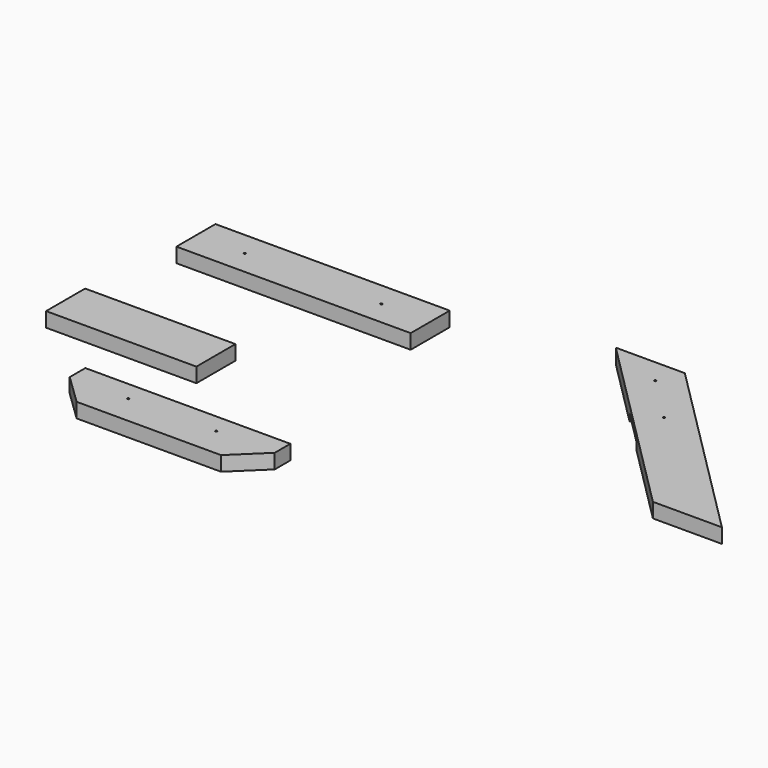
from build123d import *

# Parameters (mm, degrees)
F0_R      = 1.27
F1_DEPTH  = 19.05
F3_DEPTH  = 19.05
F6_DEPTH  = 19.05
F7_DEPTH  = 19.05
F8_DEPTH  = 9.525
F9_DEPTH  = 9.525
F10_R     = 1.27
F11_DEPTH = 19.05
F12_R     = 1.27
F13_DEPTH = 19.05
F14_W     = 195.58
F14_H     = 63.5
F15_DEPTH = 19.05


with BuildPart() as f1:
    # F0 (on Top) → F1 (new body)
    with BuildSketch(Plane.XY):
        Polygon((-33.4763097286, 71.3527927399), (-338.2763097286, 71.3527927399), (-338.2763097286, 7.8527927399), (-33.4763097286, 7.8527927399), (-33.4763097286, 39.6027927399), align=None)
        with Locations((-274.7763097286, 39.6027927399)):
            Circle(F0_R, mode=Mode.SUBTRACT)
        with BuildLine():
            ThreePointArc((-98.2463097286, 39.6027927399), (-96.9763097286, 40.8727927399), (-95.7063097286, 39.6027927399))
            ThreePointArc((-95.7063097286, 39.6027927399), (-96.9763097286, 38.3327927399), (-98.2463097286, 39.6027927399))
        make_face(mode=Mode.SUBTRACT)
    extrude(amount=F1_DEPTH)


with BuildPart() as f3:
    # F2 (on Top) → F3 (new body)
    with BuildSketch(Plane.XY):
        Polygon((-110.2220477581, -258.6090734005), (-243.5720477581, -258.6090734005), (-243.5720477581, -284.0090734005), (-204.1589498609, -322.1090734005), (-16.2851456553, -322.1090734005), (23.1279522419, -284.0090734005), (23.1279522419, -258.6090734005), align=None)
    extrude(amount=F3_DEPTH)

    # F10 (on face) → F11 (cut)
    with BuildSketch(Plane(origin=(0, -258.6090734005, 0), x_dir=(-1, 0, 0), z_dir=(0, 1, 0))):
        with Locations((5.4470477581, 9.525)):
            Circle(F10_R)
        with Locations((75.2970477581, 9.525)):
            Circle(F10_R)
        with Locations((145.1470477581, 9.525)):
            Circle(F10_R)
        with Locations((214.9970477581, 9.525)):
            Circle(F10_R)
    extrude(amount=-F11_DEPTH, mode=Mode.SUBTRACT)

    # F12 (on face) → F13 (cut)
    with BuildSketch(Plane.XY.offset(19.05)):
        with Locations((-167.3720477581, -284.0090734005)):
            Circle(F12_R)
        with BuildLine():
            ThreePointArc((-51.8020477581, -284.0090734005), (-53.0720477581, -282.7390734005), (-54.3420477581, -284.0090734005))
            ThreePointArc((-54.3420477581, -284.0090734005), (-53.0720477581, -285.2790734005), (-51.8020477581, -284.0090734005))
        make_face()
    extrude(amount=-F13_DEPTH, mode=Mode.SUBTRACT)


with BuildPart() as f6:
    # F4 (on Top) → F6 (new body)
    with BuildSketch(Plane.XY):
        Polygon((483.5608733177, -217.6587152004), (439.1108733177, -262.1087152004), (484.0121539231, -307.0099958058), (573.3634345284, -217.6587152004), align=None)
        with BuildLine():
            ThreePointArc((495.814128311, -250.3067408125), (495.814128311, -248.5106895883), (497.6101795352, -248.5106895883))
            ThreePointArc((497.6101795352, -248.5106895883), (497.8854809294, -248.9227072413), (497.9821539231, -249.4087152004))
            ThreePointArc((497.9821539231, -249.4087152004), (497.1981618822, -250.5820422067), (495.814128311, -250.3067408125))
        make_face(mode=Mode.SUBTRACT)
        Polygon((439.1108733177, -262.1087152004), (394.2095927124, -307.0099958058), (439.1108733177, -351.9112764111), (484.0121539231, -307.0099958058), align=None)
        with BuildLine():
            ThreePointArc((440.0088989298, -306.1119701937), (440.284200324, -306.5239878467), (440.3808733177, -307.0099958058))
            ThreePointArc((440.3808733177, -307.0099958058), (440.284200324, -307.4960037649), (440.0088989298, -307.9080214179))
            ThreePointArc((440.0088989298, -307.9080214179), (439.1108733177, -308.2799958058), (438.2128477056, -307.9080214179))
            ThreePointArc((438.2128477056, -307.9080214179), (437.8408733177, -307.0099958058), (438.2128477056, -306.1119701937))
            ThreePointArc((438.2128477056, -306.1119701937), (439.1108733177, -305.7399958058), (440.0088989298, -306.1119701937))
        make_face(mode=Mode.SUBTRACT)
        Polygon((394.2095927124, -307.0099958058), (242.2608733177, -458.9587152004), (332.0634345284, -458.9587152004), (439.1108733177, -351.9112764111), align=None)
    extrude(amount=F6_DEPTH)

    # F4 (on Top) → F8 (cut)
    with BuildSketch(Plane.XY):
        Polygon((439.1108733177, -262.1087152004), (394.2095927124, -307.0099958058), (439.1108733177, -351.9112764111), (484.0121539231, -307.0099958058), align=None)
        with BuildLine():
            ThreePointArc((440.0088989298, -306.1119701937), (440.284200324, -306.5239878467), (440.3808733177, -307.0099958058))
            ThreePointArc((440.3808733177, -307.0099958058), (440.284200324, -307.4960037649), (440.0088989298, -307.9080214179))
            ThreePointArc((440.0088989298, -307.9080214179), (439.1108733177, -308.2799958058), (438.2128477056, -307.9080214179))
            ThreePointArc((438.2128477056, -307.9080214179), (437.8408733177, -307.0099958058), (438.2128477056, -306.1119701937))
            ThreePointArc((438.2128477056, -306.1119701937), (439.1108733177, -305.7399958058), (440.0088989298, -306.1119701937))
        make_face(mode=Mode.SUBTRACT)
    extrude(amount=F8_DEPTH, mode=Mode.SUBTRACT)


with BuildPart() as f7:
    # F5 (on Top) → F7 (new body)
    with BuildSketch(Plane.XY):
        Polygon((328.3870717762, 23.7634943281), (283.4857911709, -21.1377862773), (390.5332299602, -128.1852250666), (480.3357911709, -128.1852250666), align=None)
        Polygon((283.4857911709, 68.6647749334), (238.5845105655, 23.7634943281), (283.4857911709, -21.1377862773), (328.3870717762, 23.7634943281), align=None)
        with BuildLine():
            ThreePointArc((284.383816783, 24.6615199402), (284.6591181772, 24.2495022872), (284.7557911709, 23.7634943281))
            ThreePointArc((284.7557911709, 23.7634943281), (284.6591181772, 23.277486369), (284.383816783, 22.865468716))
            ThreePointArc((284.383816783, 22.865468716), (283.4857911709, 22.4934943281), (282.5877655588, 22.865468716))
            ThreePointArc((282.5877655588, 22.865468716), (282.2157911709, 23.7634943281), (282.5877655588, 24.6615199402))
            ThreePointArc((282.5877655588, 24.6615199402), (283.4857911709, 25.0334943281), (284.383816783, 24.6615199402))
        make_face(mode=Mode.SUBTRACT)
        Polygon((239.0357911709, 113.1147749334), (149.2332299602, 113.1147749334), (238.5845105655, 23.7634943281), (283.4857911709, 68.6647749334), align=None)
        with BuildLine():
            ThreePointArc((224.6145105655, 81.3647749334), (224.7111835592, 81.8507828925), (224.9864849534, 82.2628005455))
            ThreePointArc((224.9864849534, 82.2628005455), (226.3705185246, 82.5381019397), (227.1545105655, 81.3647749334))
            ThreePointArc((227.1545105655, 81.3647749334), (227.0578375718, 80.8787669743), (226.7825361776, 80.4667493213))
            ThreePointArc((226.7825361776, 80.4667493213), (225.3985026064, 80.1914479271), (224.6145105655, 81.3647749334))
        make_face(mode=Mode.SUBTRACT)
    extrude(amount=F7_DEPTH)

    # F5 (on Top) → F9 (cut)
    with BuildSketch(Plane.XY):
        Polygon((283.4857911709, 68.6647749334), (238.5845105655, 23.7634943281), (283.4857911709, -21.1377862773), (328.3870717762, 23.7634943281), align=None)
        with BuildLine():
            ThreePointArc((284.383816783, 24.6615199402), (284.6591181772, 24.2495022872), (284.7557911709, 23.7634943281))
            ThreePointArc((284.7557911709, 23.7634943281), (284.6591181772, 23.277486369), (284.383816783, 22.865468716))
            ThreePointArc((284.383816783, 22.865468716), (283.4857911709, 22.4934943281), (282.5877655588, 22.865468716))
            ThreePointArc((282.5877655588, 22.865468716), (282.2157911709, 23.7634943281), (282.5877655588, 24.6615199402))
            ThreePointArc((282.5877655588, 24.6615199402), (283.4857911709, 25.0334943281), (284.383816783, 24.6615199402))
        make_face(mode=Mode.SUBTRACT)
    extrude(amount=F9_DEPTH, mode=Mode.SUBTRACT)


with BuildPart() as f15:
    # F14 (on Top) → F15 (new body)
    with BuildSketch(Plane.XY):
        with Locations((-255.2603511429, -153.9039398432)):
            Rectangle(F14_W, F14_H)
    extrude(amount=F15_DEPTH)


with BuildPart() as f17_1:
    # F17: copy of F3
    add(f3.part)


solid = Compound([f1.part, f3.part, f7.part, f15.part, f17_1.part])
